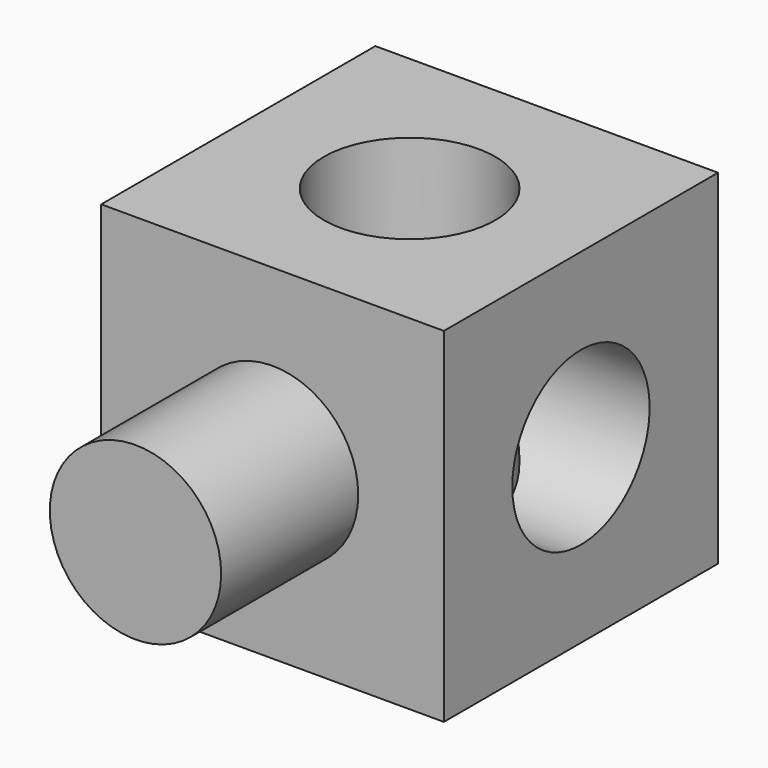
from build123d import *

# Parameters (mm, degrees)
F1_R     = 12.700524
F2_DEPTH = 25.4
F0_W     = 50.799996
F0_H     = 51.030912
F3_DEPTH = 50.8
F5_D     = 25.4508
F7_D     = 25.4508


with BuildPart() as f2:
    # F1 (on Front) → F2 (new body)
    with BuildSketch(Plane.XZ):
        Circle(F1_R)
    extrude(amount=F2_DEPTH)

    # F0 (on Front) → F3 (join)
    with BuildSketch(Plane.XZ):
        Rectangle(F0_W, F0_H)
    extrude(amount=-F3_DEPTH)

    # F5 (through all)
    with Locations(Plane.YZ.offset(25.399998)):
        with Locations((25.4, 0)):
            Hole(F5_D / 2)

    # F7 (through all)
    with Locations(Plane.XY.offset(25.515456)):
        with Locations((0, 25.4)):
            Hole(F7_D / 2)


solid = f2.part
